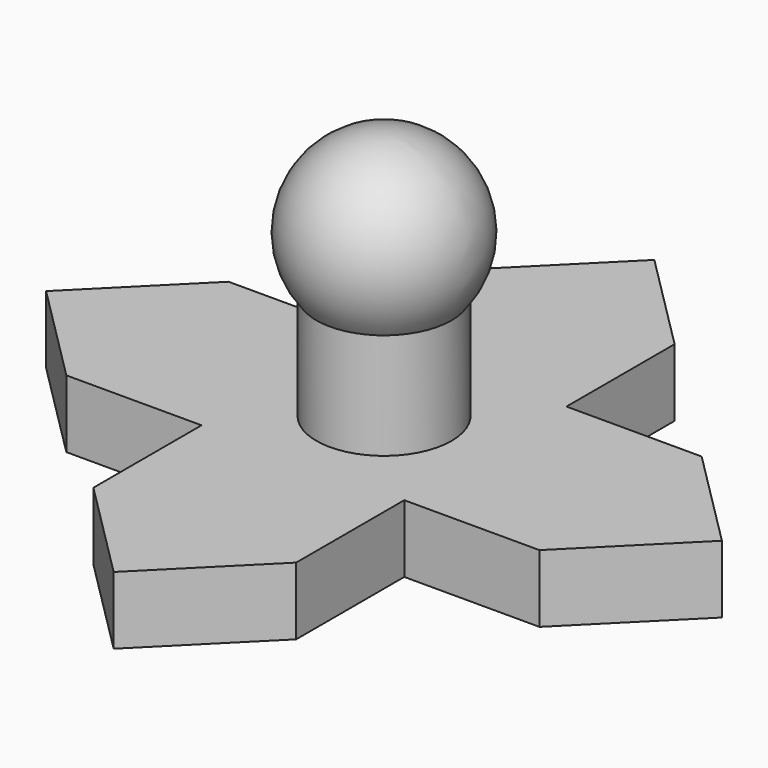
from build123d import *

# Parameters (mm, degrees)
CYLINDER011_R     = 5
CYLINDER011_DEPTH = 15
PAD_DEPTH         = 5
ARRAY006_COUNT    = 4


with BuildPart() as cylinder011:
    # Cylinder011 → Cylinder011 (new body)
    with BuildSketch(Plane.XY):
        Circle(CYLINDER011_R)
    extrude(amount=CYLINDER011_DEPTH)


with BuildPart() as sphere:
    # Sphere → Sphere (revolve)
    with BuildSketch(Plane(origin=(0, 0, 17), x_dir=(1, 0, 0), z_dir=(0, -1, 0))):
        with BuildLine():
            ThreePointArc((0, -6.5), (6.5, 0), (0, 6.5))
            Line((0, 6.5), (0, -6.5))
        make_face()
    revolve(axis=Axis((0, 0, 17), (0, 0, 1)))


with BuildPart() as obj1:
    # Sketch → Pad (new body)
    with BuildSketch(Plane.XY):
        Polygon((0, 7.5), (17.5, 7.5), (25, 0), (17.5, -7.5), (0, -7.5), align=None)
    extrude(amount=PAD_DEPTH)

    # Array006: obj1 ×4 about axis
    array006_axis = Axis((0, 0, 0), (0, 0, 1))


with BuildPart() as obj1_1:
    add(obj1.part)
    for i in range(1, ARRAY006_COUNT):
        add(obj1.part.rotate(array006_axis, i * 360 / ARRAY006_COUNT))

    # Fusion017: union Cylinder011, Sphere
    add(cylinder011.part)
    add(sphere.part)


solid = obj1_1.part
